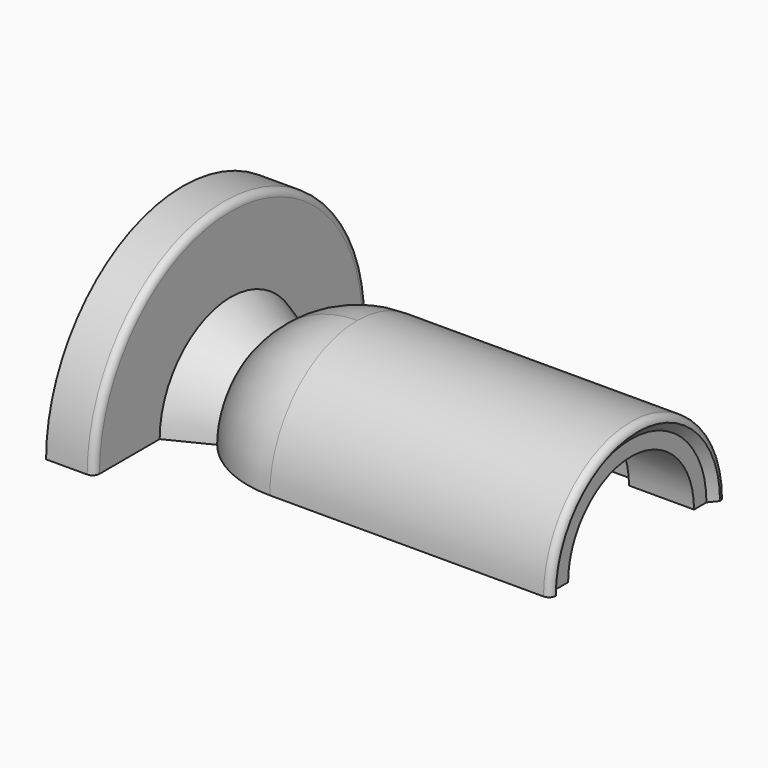
from build123d import *

# Parameters (mm, degrees)
F1_ANGLE = 180


with BuildPart() as f1:
    # F0 (on Front) → F1 (revolve, symmetric)
    with BuildSketch(Plane.XZ) as f1_sk:
        with BuildLine():
            Line((-74.990243, 30), (-74.990243, 12.5))
            Line((-74.990243, 12.5), (-35.990243, 12.5))
            Line((-35.990243, 12.5), (-35.990243, 18))
            Line((-35.990243, 18), (-25.990243, 18))
            Line((-25.990243, 18), (-25.990243, 15.5))
            Line((-25.990243, 15.5), (-12.990243, 15.5))
            Line((-12.990243, 15.5), (-12.990243, 26))
            Line((-12.990243, 26), (39.009757, 26))
            Line((39.009757, 26), (39.009757, 23))
            Line((39.009757, 23), (58.009757, 23))
            Line((58.009757, 23), (58.009757, 27.538683))
            Line((58.009757, 27.538683), (60.009757, 30))
            ThreePointArc((60.009757, 30), (59.423971, 31.414214), (58.009757, 32))
            Line((58.009757, 32), (-22.010251, 32))
            ThreePointArc((-22.010251, 32), (-35.866657, 28.84441), (-46.990243, 20))
            Line((-46.990243, 20), (-58.990243, 26))
            Line((-58.990243, 26), (-58.990243, 48))
            ThreePointArc((-58.990243, 48), (-59.576029, 49.414214), (-60.990243, 50))
            Line((-60.990243, 50), (-72.990243, 50))
            Line((-72.990243, 50), (-72.990243, 30))
            Line((-72.990243, 30), (-74.990243, 30))
        make_face()
    revolve(axis=Axis((-7.490243, 0, 0), (1, 0, 0)), revolution_arc=F1_ANGLE / 2)
    revolve(f1_sk.sketch, axis=Axis((-7.490243, 0, 0), (-1, 0, 0)), revolution_arc=F1_ANGLE / 2)


solid = f1.part
